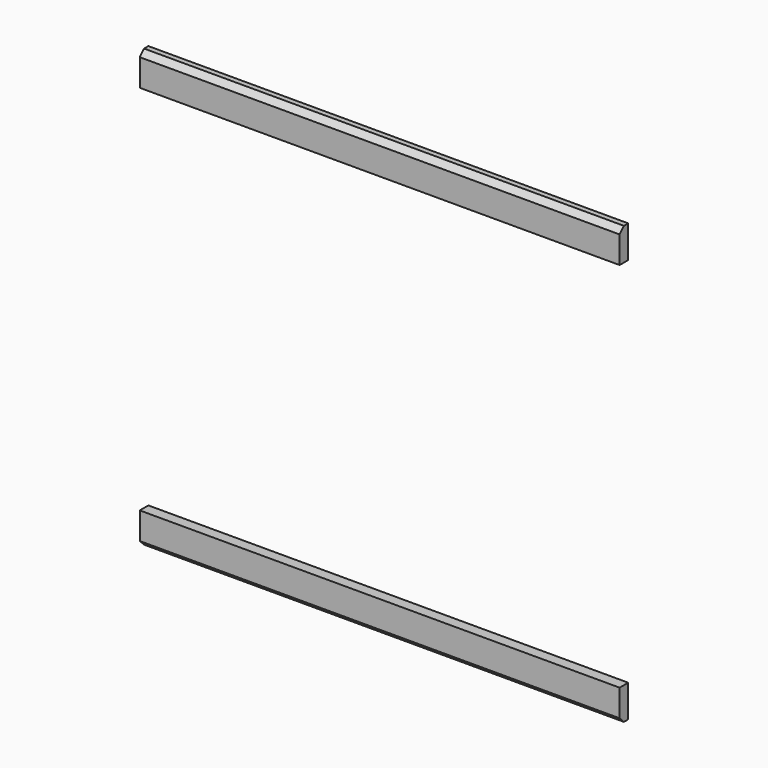
from build123d import *

# Parameters (mm, degrees)
F1_DEPTH = 6.35
F2_SIZE  = 3.175


with BuildPart() as f1:
    # F0 (on Front) → F1 (new body)
    with BuildSketch(Plane.XZ):
        Polygon((-50.684446, 128.5875), (-141.2875, 128.5875), (-141.2875, 109.5375), (141.2875, 109.5375), (141.2875, 128.5875), (0, 128.5875), align=None)
    extrude(amount=F1_DEPTH)

    # F2
    f2_edges = [f1.edges().sort_by_distance(p)[0] for p in [
        (0, -6.35, 128.5875),
    ]]
    chamfer(f2_edges, length=F2_SIZE)


with BuildPart() as f3_1:
    # F3: instance of F1
    add(f1.part.mirror(Plane.XY))


solid = Compound([f1.part, f3_1.part])
